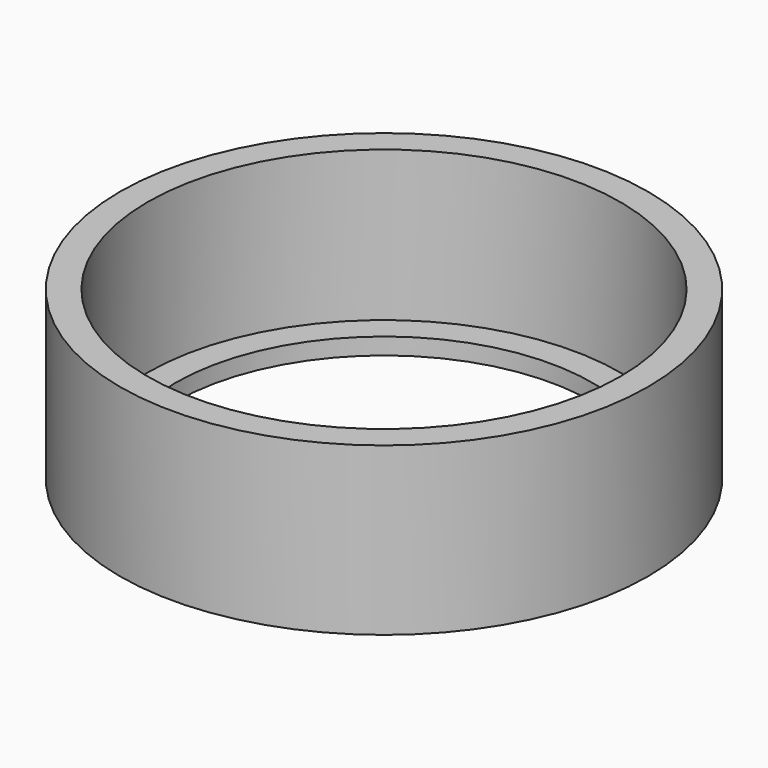
from build123d import *

# Parameters (mm, degrees)
F0_R     = 47.5
F0_R_2   = 42.5
F1_DEPTH = 30
F0_R_3   = 37.5
F2_DEPTH = 3


with BuildPart() as f1:
    # F0 (on Top) → F1 (new body)
    with BuildSketch(Plane.XY):
        Circle(F0_R)
        Circle(F0_R_2, mode=Mode.SUBTRACT)
    extrude(amount=F1_DEPTH)

    # F0 (on Top) → F2 (join)
    with BuildSketch(Plane.XY):
        Circle(F0_R)
        Circle(F0_R_2, mode=Mode.SUBTRACT)
        Circle(F0_R_2)
        Circle(F0_R_3, mode=Mode.SUBTRACT)
    extrude(amount=F2_DEPTH)


solid = f1.part
